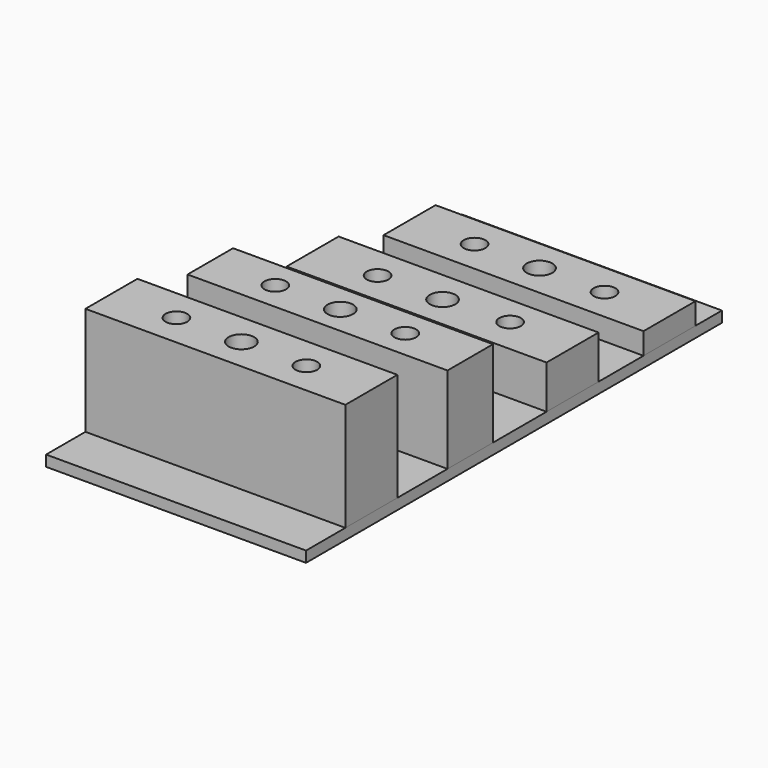
from build123d import *

# Parameters (mm, degrees)
F0_W     = 304.8
F0_H     = 609.6
F1_DEPTH = 12.7
F2_W     = 304.8
F2_H     = 76.2
F2_R     = 12.7
F2_R_2   = 15
F3_DEPTH = 127
F4_W     = 304.8
F4_H     = 66.677295
F4_R     = 12.7
F4_R_2   = 15
F5_DEPTH = 101.6
F6_W     = 304.8
F6_H     = 76.2
F6_R     = 12.7
F6_R_2   = 15
F7_DEPTH = 50.8
F8_W     = 304.8
F8_H     = 76.2
F8_R     = 12.7
F8_R_2   = 15
F9_DEPTH = 25.4


with BuildPart() as f1:
    # F0 (on Top) → F1 (new body)
    with BuildSketch(Plane.XY):
        Rectangle(F0_W, F0_H)
    extrude(amount=-F1_DEPTH)


with BuildPart() as f3:
    # F2 (on face) → F3 (new body)
    with BuildSketch(Plane.XY):
        with Locations((0, -209.017739)):
            Rectangle(F2_W, F2_H)
        with Locations((-76.2, -209.017739)):
            Circle(F2_R, mode=Mode.SUBTRACT)
        with Locations((0, -209.017739)):
            Circle(F2_R_2, mode=Mode.SUBTRACT)
        with Locations((76.2, -209.017739)):
            Circle(F2_R, mode=Mode.SUBTRACT)
    extrude(amount=F3_DEPTH)


with BuildPart() as f5:
    # F4 (on face) → F5 (new body)
    with BuildSketch(Plane.XY):
        with Locations((0, -64.103127)):
            Rectangle(F4_W, F4_H)
        with Locations((-76.2, -64.103127)):
            Circle(F4_R, mode=Mode.SUBTRACT)
        with Locations((0, -64.103127)):
            Circle(F4_R_2, mode=Mode.SUBTRACT)
        with Locations((76.2, -64.103127)):
            Circle(F4_R, mode=Mode.SUBTRACT)
    extrude(amount=F5_DEPTH)


with BuildPart() as f7:
    # F6 (on face) → F7 (new body)
    with BuildSketch(Plane.XY):
        with Locations((0, 85.850902)):
            Rectangle(F6_W, F6_H)
        with Locations((-76.2, 85.850902)):
            Circle(F6_R, mode=Mode.SUBTRACT)
        with Locations((0, 85.850902)):
            Circle(F6_R_2, mode=Mode.SUBTRACT)
        with Locations((76.2, 89.571275)):
            Circle(F6_R, mode=Mode.SUBTRACT)
    extrude(amount=F7_DEPTH)


with BuildPart() as f9:
    # F8 (on face) → F9 (new body)
    with BuildSketch(Plane.XY):
        with Locations((0, 227.965087)):
            Rectangle(F8_W, F8_H)
        with Locations((-76.2, 227.965087)):
            Circle(F8_R, mode=Mode.SUBTRACT)
        with Locations((0, 227.965087)):
            Circle(F8_R_2, mode=Mode.SUBTRACT)
        with Locations((76.2, 227.965087)):
            Circle(F8_R, mode=Mode.SUBTRACT)
    extrude(amount=F9_DEPTH)


solid = Compound([f1.part, f3.part, f5.part, f7.part, f9.part])
